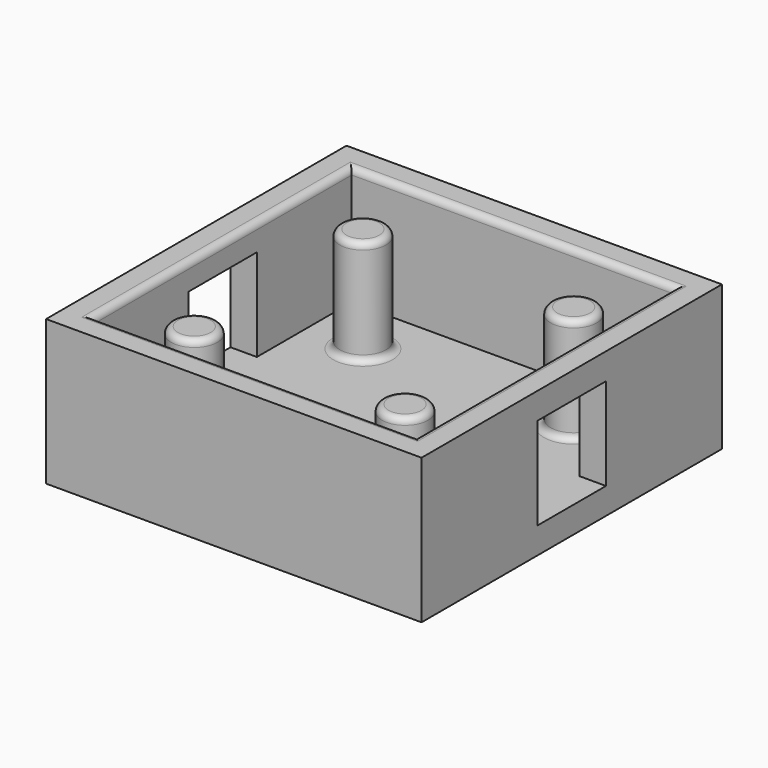
from build123d import *

# Parameters (mm, degrees)
F0_W     = 24.5
F0_H     = 24.5
F1_DEPTH = 1
F2_W     = 28.5
F2_H     = 28.5
F2_W_2   = 24.5
F2_H_2   = 24.5
F3_DEPTH = 10
F4_W     = 6.5
F4_H     = 7
F5_DEPTH = 14.25
F6_R     = 1.75
F7_DEPTH = 9
F8_DEPTH = 1
F9_DEPTH = 1
F10_R    = 0.5


with BuildPart() as f1:
    # F0 (on Top) → F1 (new body)
    with BuildSketch(Plane.XY):
        Rectangle(F0_W, F0_H)
    extrude(amount=F1_DEPTH)

    # F2 (on Top) → F3 (join)
    with BuildSketch(Plane.XY):
        Rectangle(F2_W, F2_H)
        Rectangle(F2_W_2, F2_H_2, mode=Mode.SUBTRACT)
    extrude(amount=F3_DEPTH)

    # F4 (on Right) → F5 (cut, symmetric)
    with BuildSketch(Plane.YZ):
        with Locations((0, 4.5)):
            Rectangle(F4_W, F4_H)
    extrude(amount=F5_DEPTH, both=True, mode=Mode.SUBTRACT)

    # F6 (on Top) → F7 (join)
    with BuildSketch(Plane.XY):
        with Locations((-8, -8)):
            Circle(F6_R)
        with Locations((8, -8)):
            Circle(F6_R)
        with Locations((-8, 8)):
            Circle(F6_R)
        with Locations((8, 8)):
            Circle(F6_R)
    extrude(amount=F7_DEPTH)

    # F0 (on Top) → F8 (join)
    with BuildSketch(Plane.XY):
        Rectangle(F0_W, F0_H)
    extrude(amount=-F8_DEPTH)

    # F2 (on Top) → F9 (join)
    with BuildSketch(Plane.XY):
        Rectangle(F2_W, F2_H)
        Rectangle(F2_W_2, F2_H_2, mode=Mode.SUBTRACT)
    extrude(amount=-F9_DEPTH)

    # F10
    f10_edges = [f1.edges().sort_by_distance(p)[0] for p in [
        (0, -12.25, 10),
        (12.25, 0, 10),
        (0, 12.25, 10),
        (-12.25, 0, 10),
        (-9.75, -8, 9),
        (-9.75, 8, 9),
        (6.25, 8, 9),
        (6.25, -8, 9),
        (-9.75, 8, 1),
        (-9.75, -8, 1),
        (6.25, -8, 1),
        (6.25, 8, 1),
    ]]
    fillet(f10_edges, radius=F10_R)


solid = f1.part
